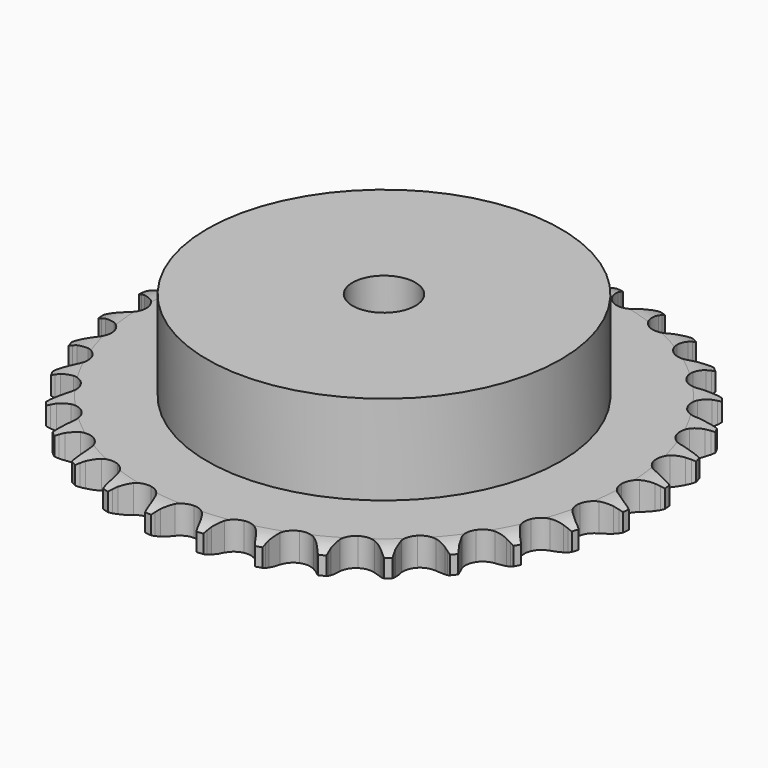
from build123d import *

# Parameters (mm, degrees)
PAD_DEPTH         = 7.2
SKETCH001_R       = 45
PAD001_DEPTH      = 30
SKETCH002_R       = 8
POCKET_DEPTH      = 0.001
POCKET_DEPTH_BACK = 30.001


with BuildPart() as part:
    # Sprocket → Pad (new body)
    with BuildSketch(Plane.XY):
        with BuildLine():
            ThreePointArc((-6.722983, 68.259588), (-5.947068, 67.220529), (-5.378585, 66.054975))
            Line((-5.378585, 66.054975), (-4.96346, 64.952015))
            ThreePointArc((-4.96346, 64.952015), (-4.305248, 63.520135), (-3.451269, 62.195655))
            ThreePointArc((-3.451269, 62.195655), (-1.929275, 60.925607), (0, 60.470212))
            ThreePointArc((0, 60.470212), (1.929275, 60.925607), (3.451269, 62.195655))
            ThreePointArc((3.451269, 62.195655), (4.305248, 63.520135), (4.96346, 64.952015))
            Line((4.96346, 64.952015), (5.378585, 66.054975))
            ThreePointArc((5.378585, 66.054975), (5.947068, 67.220529), (6.722983, 68.259588))
            ThreePointArc((6.722983, 68.259588), (7.281278, 67.089121), (7.611449, 65.835057))
            Line((7.611449, 65.835057), (7.803421, 64.672304))
            ThreePointArc((7.803421, 64.672304), (8.16964, 63.139526), (8.748816, 61.673892))
            ThreePointArc((8.748816, 61.673892), (9.993791, 60.131322), (11.797153, 59.308294))
            ThreePointArc((11.797153, 59.308294), (13.778201, 59.378556), (15.518725, 60.327274))
            Line((15.518725, 60.327274), (17.539599, 62.735657))
            ThreePointArc((17.539599, 62.735657), (17.837497, 63.244296), (18.161923, 63.736437))
            ThreePointArc((18.161923, 63.736437), (18.946871, 64.76869), (19.910587, 65.63641))
            ThreePointArc((19.910587, 65.63641), (20.229809, 64.379515), (20.30898, 63.085135))
            Line((20.30898, 63.085135), (20.270421, 61.907272))
            ThreePointArc((20.270421, 61.907272), (20.330573, 60.3325), (20.61269, 58.782036))
            ThreePointArc((20.61269, 58.782036), (21.532803, 57.026223), (23.140948, 55.867192))
            ThreePointArc((23.140948, 55.867192), (25.097638, 55.54962), (26.989804, 56.140549))
            Line((26.989804, 56.140549), (29.4417, 58.108403))
            ThreePointArc((29.4417, 58.108403), (29.833104, 58.549151), (30.247309, 58.968544))
            ThreePointArc((30.247309, 58.968544), (31.218557, 59.827827), (32.333039, 60.490862))
            ThreePointArc((32.333039, 60.490862), (32.400919, 59.195841), (32.226048, 57.910886))
            Line((32.226048, 57.910886), (31.95844, 56.763178))
            ThreePointArc((31.95844, 56.763178), (31.710214, 55.206929), (31.684429, 53.63122))
            ThreePointArc((31.684429, 53.63122), (32.24432, 51.729639), (33.59545, 50.279144))
            ThreePointArc((33.59545, 50.279144), (35.452588, 49.585943), (37.42368, 49.796375))
            Line((37.42368, 49.796375), (40.212373, 51.248076))
            ThreePointArc((40.212373, 51.248076), (40.682242, 51.603996), (41.170308, 51.934523))
            ThreePointArc((41.170308, 51.934523), (42.290531, 52.587813), (43.512951, 53.020684))
            ThreePointArc((43.512951, 53.020684), (43.32688, 51.737304), (42.904687, 50.511155))
            Line((42.904687, 50.511155), (42.418314, 49.437707))
            ThreePointArc((42.418314, 49.437707), (41.871248, 47.959788), (41.538553, 46.419386))
            ThreePointArc((41.538553, 46.419386), (41.716706, 44.445114), (42.758897, 42.758897))
            ThreePointArc((42.758897, 42.758897), (44.445114, 41.716706), (46.419386, 41.538553))
            Line((46.419386, 41.538553), (49.437707, 42.418314))
            ThreePointArc((49.437707, 42.418314), (49.967985, 42.675728), (50.511155, 42.904687))
            ThreePointArc((50.511155, 42.904687), (51.737304, 43.32688), (53.020684, 43.512951))
            ThreePointArc((53.020684, 43.512951), (52.587813, 42.290531), (51.934523, 41.170308))
            Line((51.934523, 41.170308), (51.248076, 40.212373))
            ThreePointArc((51.248076, 40.212373), (50.423195, 38.869579), (49.796375, 37.42368))
            ThreePointArc((49.796375, 37.42368), (49.585943, 35.452588), (50.279144, 33.59545))
            ThreePointArc((50.279144, 33.59545), (51.729639, 32.24432), (53.63122, 31.684429))
            Line((53.63122, 31.684429), (56.763178, 31.95844))
            ThreePointArc((56.763178, 31.95844), (57.333485, 32.107455), (57.910886, 32.226048))
            ThreePointArc((57.910886, 32.226048), (59.195841, 32.400919), (60.490862, 32.333039))
            ThreePointArc((60.490862, 32.333039), (59.827827, 31.218557), (58.968544, 30.247309))
            Line((58.968544, 30.247309), (58.108403, 29.4417))
            ThreePointArc((58.108403, 29.4417), (57.037406, 28.285633), (56.140549, 26.989804))
            ThreePointArc((56.140549, 26.989804), (55.54962, 25.097638), (55.867192, 23.140948))
            ThreePointArc((55.867192, 23.140948), (57.026223, 21.532803), (58.782036, 20.61269))
            Line((58.782036, 20.61269), (61.907272, 20.270421))
            ThreePointArc((61.907272, 20.270421), (62.495692, 20.305312), (63.085135, 20.30898))
            ThreePointArc((63.085135, 20.30898), (64.379515, 20.229809), (65.63641, 19.910587))
            ThreePointArc((65.63641, 19.910587), (64.76869, 18.946871), (63.736437, 18.161923))
            Line((63.736437, 18.161923), (62.735657, 17.539599))
            ThreePointArc((62.735657, 17.539599), (61.459701, 16.614687), (60.327274, 15.518725))
            ThreePointArc((60.327274, 15.518725), (59.378556, 13.778201), (59.308294, 11.797153))
            ThreePointArc((59.308294, 11.797153), (60.131322, 9.993791), (61.673892, 8.748816))
            Line((61.673892, 8.748816), (64.672304, 7.803421))
            ThreePointArc((64.672304, 7.803421), (65.256225, 7.722846), (65.835057, 7.611449))
            ThreePointArc((65.835057, 7.611449), (67.089121, 7.281278), (68.259588, 6.722983))
            ThreePointArc((68.259588, 6.722983), (67.220529, 5.947068), (66.054975, 5.378585))
            Line((66.054975, 5.378585), (64.952015, 4.96346))
            ThreePointArc((64.952015, 4.96346), (63.520135, 4.305248), (62.195655, 3.451269))
            ThreePointArc((62.195655, 3.451269), (60.925607, 1.929275), (60.470212, 0))
            ThreePointArc((60.470212, 0), (60.925607, -1.929275), (62.195655, -3.451269))
            Line((62.195655, -3.451269), (64.952015, -4.96346))
            ThreePointArc((64.952015, -4.96346), (65.508997, -5.156404), (66.054975, -5.378585))
            ThreePointArc((66.054975, -5.378585), (67.220529, -5.947068), (68.259588, -6.722983))
            ThreePointArc((68.259588, -6.722983), (67.089121, -7.281278), (65.835057, -7.611449))
            Line((65.835057, -7.611449), (64.672304, -7.803421))
            ThreePointArc((64.672304, -7.803421), (63.139526, -8.16964), (61.673892, -8.748816))
            ThreePointArc((61.673892, -8.748816), (60.131322, -9.993791), (59.308294, -11.797153))
            ThreePointArc((59.308294, -11.797153), (59.378556, -13.778201), (60.327274, -15.518725))
            Line((60.327274, -15.518725), (62.735657, -17.539599))
            ThreePointArc((62.735657, -17.539599), (63.244296, -17.837497), (63.736437, -18.161923))
            ThreePointArc((63.736437, -18.161923), (64.76869, -18.946871), (65.63641, -19.910587))
            ThreePointArc((65.63641, -19.910587), (64.379515, -20.229809), (63.085135, -20.30898))
            Line((63.085135, -20.30898), (61.907272, -20.270421))
            ThreePointArc((61.907272, -20.270421), (60.3325, -20.330573), (58.782036, -20.61269))
            ThreePointArc((58.782036, -20.61269), (57.026223, -21.532803), (55.867192, -23.140948))
            ThreePointArc((55.867192, -23.140948), (55.54962, -25.097638), (56.140549, -26.989804))
            Line((56.140549, -26.989804), (58.108403, -29.4417))
            ThreePointArc((58.108403, -29.4417), (58.549151, -29.833104), (58.968544, -30.247309))
            ThreePointArc((58.968544, -30.247309), (59.827827, -31.218557), (60.490862, -32.333039))
            ThreePointArc((60.490862, -32.333039), (59.195841, -32.400919), (57.910886, -32.226048))
            Line((57.910886, -32.226048), (56.763178, -31.95844))
            ThreePointArc((56.763178, -31.95844), (55.206929, -31.710214), (53.63122, -31.684429))
            ThreePointArc((53.63122, -31.684429), (51.729639, -32.24432), (50.279144, -33.59545))
            ThreePointArc((50.279144, -33.59545), (49.585943, -35.452588), (49.796375, -37.42368))
            Line((49.796375, -37.42368), (51.248076, -40.212373))
            ThreePointArc((51.248076, -40.212373), (51.603996, -40.682242), (51.934523, -41.170308))
            ThreePointArc((51.934523, -41.170308), (52.587813, -42.290531), (53.020684, -43.512951))
            ThreePointArc((53.020684, -43.512951), (51.737304, -43.32688), (50.511155, -42.904687))
            Line((50.511155, -42.904687), (49.437707, -42.418314))
            ThreePointArc((49.437707, -42.418314), (47.959788, -41.871248), (46.419386, -41.538553))
            ThreePointArc((46.419386, -41.538553), (44.445114, -41.716706), (42.758897, -42.758897))
            ThreePointArc((42.758897, -42.758897), (41.716706, -44.445114), (41.538553, -46.419386))
            Line((41.538553, -46.419386), (42.418314, -49.437707))
            ThreePointArc((42.418314, -49.437707), (42.675728, -49.967985), (42.904687, -50.511155))
            ThreePointArc((42.904687, -50.511155), (43.32688, -51.737304), (43.512951, -53.020684))
            ThreePointArc((43.512951, -53.020684), (42.290531, -52.587813), (41.170308, -51.934523))
            Line((41.170308, -51.934523), (40.212373, -51.248076))
            ThreePointArc((40.212373, -51.248076), (38.869579, -50.423195), (37.42368, -49.796375))
            ThreePointArc((37.42368, -49.796375), (35.452588, -49.585943), (33.59545, -50.279144))
            ThreePointArc((33.59545, -50.279144), (32.24432, -51.729639), (31.684429, -53.63122))
            Line((31.684429, -53.63122), (31.95844, -56.763178))
            ThreePointArc((31.95844, -56.763178), (32.107455, -57.333485), (32.226048, -57.910886))
            ThreePointArc((32.226048, -57.910886), (32.400919, -59.195841), (32.333039, -60.490862))
            ThreePointArc((32.333039, -60.490862), (31.218557, -59.827827), (30.247309, -58.968544))
            Line((30.247309, -58.968544), (29.4417, -58.108403))
            ThreePointArc((29.4417, -58.108403), (28.285633, -57.037406), (26.989804, -56.140549))
            ThreePointArc((26.989804, -56.140549), (25.097638, -55.54962), (23.140948, -55.867192))
            ThreePointArc((23.140948, -55.867192), (21.532803, -57.026223), (20.61269, -58.782036))
            Line((20.61269, -58.782036), (20.270421, -61.907272))
            ThreePointArc((20.270421, -61.907272), (20.305312, -62.495692), (20.30898, -63.085135))
            ThreePointArc((20.30898, -63.085135), (20.229809, -64.379515), (19.910587, -65.63641))
            ThreePointArc((19.910587, -65.63641), (18.946871, -64.76869), (18.161923, -63.736437))
            Line((18.161923, -63.736437), (17.539599, -62.735657))
            ThreePointArc((17.539599, -62.735657), (16.614687, -61.459701), (15.518725, -60.327274))
            ThreePointArc((15.518725, -60.327274), (13.778201, -59.378556), (11.797153, -59.308294))
            ThreePointArc((11.797153, -59.308294), (9.993791, -60.131322), (8.748816, -61.673892))
            Line((8.748816, -61.673892), (7.803421, -64.672304))
            ThreePointArc((7.803421, -64.672304), (7.722846, -65.256225), (7.611449, -65.835057))
            ThreePointArc((7.611449, -65.835057), (7.281278, -67.089121), (6.722983, -68.259588))
            ThreePointArc((6.722983, -68.259588), (5.947068, -67.220529), (5.378585, -66.054975))
            Line((5.378585, -66.054975), (4.96346, -64.952015))
            ThreePointArc((4.96346, -64.952015), (4.305248, -63.520135), (3.451269, -62.195655))
            ThreePointArc((3.451269, -62.195655), (1.929275, -60.925607), (0, -60.470212))
            ThreePointArc((0, -60.470212), (-1.929275, -60.925607), (-3.451269, -62.195655))
            Line((-3.451269, -62.195655), (-4.96346, -64.952015))
            ThreePointArc((-4.96346, -64.952015), (-5.156404, -65.508997), (-5.378585, -66.054975))
            ThreePointArc((-5.378585, -66.054975), (-5.947068, -67.220529), (-6.722983, -68.259588))
            ThreePointArc((-6.722983, -68.259588), (-7.281278, -67.089121), (-7.611449, -65.835057))
            Line((-7.611449, -65.835057), (-7.803421, -64.672304))
            ThreePointArc((-7.803421, -64.672304), (-8.16964, -63.139526), (-8.748816, -61.673892))
            ThreePointArc((-8.748816, -61.673892), (-9.993791, -60.131322), (-11.797153, -59.308294))
            ThreePointArc((-11.797153, -59.308294), (-13.778201, -59.378556), (-15.518725, -60.327274))
            Line((-15.518725, -60.327274), (-17.539599, -62.735657))
            ThreePointArc((-17.539599, -62.735657), (-17.837497, -63.244296), (-18.161923, -63.736437))
            ThreePointArc((-18.161923, -63.736437), (-18.946871, -64.76869), (-19.910587, -65.63641))
            ThreePointArc((-19.910587, -65.63641), (-20.229809, -64.379515), (-20.30898, -63.085135))
            Line((-20.30898, -63.085135), (-20.270421, -61.907272))
            ThreePointArc((-20.270421, -61.907272), (-20.330573, -60.3325), (-20.61269, -58.782036))
            ThreePointArc((-20.61269, -58.782036), (-21.532803, -57.026223), (-23.140948, -55.867192))
            ThreePointArc((-23.140948, -55.867192), (-25.097638, -55.54962), (-26.989804, -56.140549))
            Line((-26.989804, -56.140549), (-29.4417, -58.108403))
            ThreePointArc((-29.4417, -58.108403), (-29.833104, -58.549151), (-30.247309, -58.968544))
            ThreePointArc((-30.247309, -58.968544), (-31.218557, -59.827827), (-32.333039, -60.490862))
            ThreePointArc((-32.333039, -60.490862), (-32.400919, -59.195841), (-32.226048, -57.910886))
            Line((-32.226048, -57.910886), (-31.95844, -56.763178))
            ThreePointArc((-31.95844, -56.763178), (-31.710214, -55.206929), (-31.684429, -53.63122))
            ThreePointArc((-31.684429, -53.63122), (-32.24432, -51.729639), (-33.59545, -50.279144))
            ThreePointArc((-33.59545, -50.279144), (-35.452588, -49.585943), (-37.42368, -49.796375))
            Line((-37.42368, -49.796375), (-40.212373, -51.248076))
            ThreePointArc((-40.212373, -51.248076), (-40.682242, -51.603996), (-41.170308, -51.934523))
            ThreePointArc((-41.170308, -51.934523), (-42.290531, -52.587813), (-43.512951, -53.020684))
            ThreePointArc((-43.512951, -53.020684), (-43.32688, -51.737304), (-42.904687, -50.511155))
            Line((-42.904687, -50.511155), (-42.418314, -49.437707))
            ThreePointArc((-42.418314, -49.437707), (-41.871248, -47.959788), (-41.538553, -46.419386))
            ThreePointArc((-41.538553, -46.419386), (-41.716706, -44.445114), (-42.758897, -42.758897))
            ThreePointArc((-42.758897, -42.758897), (-44.445114, -41.716706), (-46.419386, -41.538553))
            Line((-46.419386, -41.538553), (-49.437707, -42.418314))
            ThreePointArc((-49.437707, -42.418314), (-49.967985, -42.675728), (-50.511155, -42.904687))
            ThreePointArc((-50.511155, -42.904687), (-51.737304, -43.32688), (-53.020684, -43.512951))
            ThreePointArc((-53.020684, -43.512951), (-52.587813, -42.290531), (-51.934523, -41.170308))
            Line((-51.934523, -41.170308), (-51.248076, -40.212373))
            ThreePointArc((-51.248076, -40.212373), (-50.423195, -38.869579), (-49.796375, -37.42368))
            ThreePointArc((-49.796375, -37.42368), (-49.585943, -35.452588), (-50.279144, -33.59545))
            ThreePointArc((-50.279144, -33.59545), (-51.729639, -32.24432), (-53.63122, -31.684429))
            Line((-53.63122, -31.684429), (-56.763178, -31.95844))
            ThreePointArc((-56.763178, -31.95844), (-57.333485, -32.107455), (-57.910886, -32.226048))
            ThreePointArc((-57.910886, -32.226048), (-59.195841, -32.400919), (-60.490862, -32.333039))
            ThreePointArc((-60.490862, -32.333039), (-59.827827, -31.218557), (-58.968544, -30.247309))
            Line((-58.968544, -30.247309), (-58.108403, -29.4417))
            ThreePointArc((-58.108403, -29.4417), (-57.037406, -28.285633), (-56.140549, -26.989804))
            ThreePointArc((-56.140549, -26.989804), (-55.54962, -25.097638), (-55.867192, -23.140948))
            ThreePointArc((-55.867192, -23.140948), (-57.026223, -21.532803), (-58.782036, -20.61269))
            Line((-58.782036, -20.61269), (-61.907272, -20.270421))
            ThreePointArc((-61.907272, -20.270421), (-62.495692, -20.305312), (-63.085135, -20.30898))
            ThreePointArc((-63.085135, -20.30898), (-64.379515, -20.229809), (-65.63641, -19.910587))
            ThreePointArc((-65.63641, -19.910587), (-64.76869, -18.946871), (-63.736437, -18.161923))
            Line((-63.736437, -18.161923), (-62.735657, -17.539599))
            ThreePointArc((-62.735657, -17.539599), (-61.459701, -16.614687), (-60.327274, -15.518725))
            ThreePointArc((-60.327274, -15.518725), (-59.378556, -13.778201), (-59.308294, -11.797153))
            ThreePointArc((-59.308294, -11.797153), (-60.131322, -9.993791), (-61.673892, -8.748816))
            Line((-61.673892, -8.748816), (-64.672304, -7.803421))
            ThreePointArc((-64.672304, -7.803421), (-65.256225, -7.722846), (-65.835057, -7.611449))
            ThreePointArc((-65.835057, -7.611449), (-67.089121, -7.281278), (-68.259588, -6.722983))
            ThreePointArc((-68.259588, -6.722983), (-67.220529, -5.947068), (-66.054975, -5.378585))
            Line((-66.054975, -5.378585), (-64.952015, -4.96346))
            ThreePointArc((-64.952015, -4.96346), (-63.520135, -4.305248), (-62.195655, -3.451269))
            ThreePointArc((-62.195655, -3.451269), (-60.925607, -1.929275), (-60.470212, 0))
            ThreePointArc((-60.470212, 0), (-60.925607, 1.929275), (-62.195655, 3.451269))
            Line((-62.195655, 3.451269), (-64.952015, 4.96346))
            ThreePointArc((-64.952015, 4.96346), (-65.508997, 5.156404), (-66.054975, 5.378585))
            ThreePointArc((-66.054975, 5.378585), (-67.220529, 5.947068), (-68.259588, 6.722983))
            ThreePointArc((-68.259588, 6.722983), (-67.089121, 7.281278), (-65.835057, 7.611449))
            Line((-65.835057, 7.611449), (-64.672304, 7.803421))
            ThreePointArc((-64.672304, 7.803421), (-63.139526, 8.16964), (-61.673892, 8.748816))
            ThreePointArc((-61.673892, 8.748816), (-60.131322, 9.993791), (-59.308294, 11.797153))
            ThreePointArc((-59.308294, 11.797153), (-59.378556, 13.778201), (-60.327274, 15.518725))
            Line((-60.327274, 15.518725), (-62.735657, 17.539599))
            ThreePointArc((-62.735657, 17.539599), (-63.244296, 17.837497), (-63.736437, 18.161923))
            ThreePointArc((-63.736437, 18.161923), (-64.76869, 18.946871), (-65.63641, 19.910587))
            ThreePointArc((-65.63641, 19.910587), (-64.379515, 20.229809), (-63.085135, 20.30898))
            Line((-63.085135, 20.30898), (-61.907272, 20.270421))
            ThreePointArc((-61.907272, 20.270421), (-60.3325, 20.330573), (-58.782036, 20.61269))
            ThreePointArc((-58.782036, 20.61269), (-57.026223, 21.532803), (-55.867192, 23.140948))
            ThreePointArc((-55.867192, 23.140948), (-55.54962, 25.097638), (-56.140549, 26.989804))
            Line((-56.140549, 26.989804), (-58.108403, 29.4417))
            ThreePointArc((-58.108403, 29.4417), (-58.549151, 29.833104), (-58.968544, 30.247309))
            ThreePointArc((-58.968544, 30.247309), (-59.827827, 31.218557), (-60.490862, 32.333039))
            ThreePointArc((-60.490862, 32.333039), (-59.195841, 32.400919), (-57.910886, 32.226048))
            Line((-57.910886, 32.226048), (-56.763178, 31.95844))
            ThreePointArc((-56.763178, 31.95844), (-55.206929, 31.710214), (-53.63122, 31.684429))
            ThreePointArc((-53.63122, 31.684429), (-51.729639, 32.24432), (-50.279144, 33.59545))
            ThreePointArc((-50.279144, 33.59545), (-49.585943, 35.452588), (-49.796375, 37.42368))
            Line((-49.796375, 37.42368), (-51.248076, 40.212373))
            ThreePointArc((-51.248076, 40.212373), (-51.603996, 40.682242), (-51.934523, 41.170308))
            ThreePointArc((-51.934523, 41.170308), (-52.587813, 42.290531), (-53.020684, 43.512951))
            ThreePointArc((-53.020684, 43.512951), (-51.737304, 43.32688), (-50.511155, 42.904687))
            Line((-50.511155, 42.904687), (-49.437707, 42.418314))
            ThreePointArc((-49.437707, 42.418314), (-47.959788, 41.871248), (-46.419386, 41.538553))
            ThreePointArc((-46.419386, 41.538553), (-44.445114, 41.716706), (-42.758897, 42.758897))
            ThreePointArc((-42.758897, 42.758897), (-41.716706, 44.445114), (-41.538553, 46.419386))
            Line((-41.538553, 46.419386), (-42.418314, 49.437707))
            ThreePointArc((-42.418314, 49.437707), (-42.675728, 49.967985), (-42.904687, 50.511155))
            ThreePointArc((-42.904687, 50.511155), (-43.32688, 51.737304), (-43.512951, 53.020684))
            ThreePointArc((-43.512951, 53.020684), (-42.290531, 52.587813), (-41.170308, 51.934523))
            Line((-41.170308, 51.934523), (-40.212373, 51.248076))
            ThreePointArc((-40.212373, 51.248076), (-38.869579, 50.423195), (-37.42368, 49.796375))
            ThreePointArc((-37.42368, 49.796375), (-35.452588, 49.585943), (-33.59545, 50.279144))
            ThreePointArc((-33.59545, 50.279144), (-32.24432, 51.729639), (-31.684429, 53.63122))
            Line((-31.684429, 53.63122), (-31.95844, 56.763178))
            ThreePointArc((-31.95844, 56.763178), (-32.107455, 57.333485), (-32.226048, 57.910886))
            ThreePointArc((-32.226048, 57.910886), (-32.400919, 59.195841), (-32.333039, 60.490862))
            ThreePointArc((-32.333039, 60.490862), (-31.218557, 59.827827), (-30.247309, 58.968544))
            Line((-30.247309, 58.968544), (-29.4417, 58.108403))
            ThreePointArc((-29.4417, 58.108403), (-28.285633, 57.037406), (-26.989804, 56.140549))
            ThreePointArc((-26.989804, 56.140549), (-25.097638, 55.54962), (-23.140948, 55.867192))
            ThreePointArc((-23.140948, 55.867192), (-21.532803, 57.026223), (-20.61269, 58.782036))
            Line((-20.61269, 58.782036), (-20.270421, 61.907272))
            ThreePointArc((-20.270421, 61.907272), (-20.305312, 62.495692), (-20.30898, 63.085135))
            ThreePointArc((-20.30898, 63.085135), (-20.229809, 64.379515), (-19.910587, 65.63641))
            ThreePointArc((-19.910587, 65.63641), (-18.946871, 64.76869), (-18.161923, 63.736437))
            Line((-18.161923, 63.736437), (-17.539599, 62.735657))
            ThreePointArc((-17.539599, 62.735657), (-16.614687, 61.459701), (-15.518725, 60.327274))
            ThreePointArc((-15.518725, 60.327274), (-13.778201, 59.378556), (-11.797153, 59.308294))
            ThreePointArc((-11.797153, 59.308294), (-9.993791, 60.131322), (-8.748816, 61.673892))
            Line((-8.748816, 61.673892), (-7.803421, 64.672304))
            ThreePointArc((-7.803421, 64.672304), (-7.722846, 65.256225), (-7.611449, 65.835057))
            ThreePointArc((-7.611449, 65.835057), (-7.281278, 67.089121), (-6.722983, 68.259588))
        make_face()
    extrude(amount=PAD_DEPTH)

    # Sketch → Groove (revolve, cut)
    with BuildSketch(Plane.XZ):
        with BuildLine():
            Line((61.483431, 0), (67.15, 0))
            Line((72.816569, 0), (67.15, 0))
            Line((72.816569, 7.2), (72.816569, 0))
            Line((67.15, 7.2), (72.816569, 7.2))
            Line((61.483431, 7.2), (67.15, 7.2))
            ThreePointArc((67.15, 5.9), (64.39032, 6.870833), (61.483431, 7.2))
            Line((67.15, 1.3), (67.15, 5.9))
            ThreePointArc((61.483431, 0), (64.39032, 0.329167), (67.15, 1.3))
        make_face()
    revolve(axis=Axis((0, 0, 0), (0, 0, 1)), mode=Mode.SUBTRACT)

    # Sketch001 → Pad001 (join)
    with BuildSketch(Plane.XY):
        Circle(SKETCH001_R)
    extrude(amount=PAD001_DEPTH)

    # Sketch002 → Pocket (cut, two sides)
    with BuildSketch(Plane.XY) as pocket_sk:
        Circle(SKETCH002_R)
    extrude(amount=-POCKET_DEPTH, mode=Mode.SUBTRACT)
    extrude(pocket_sk.sketch, amount=POCKET_DEPTH_BACK, mode=Mode.SUBTRACT)


solid = part.part
